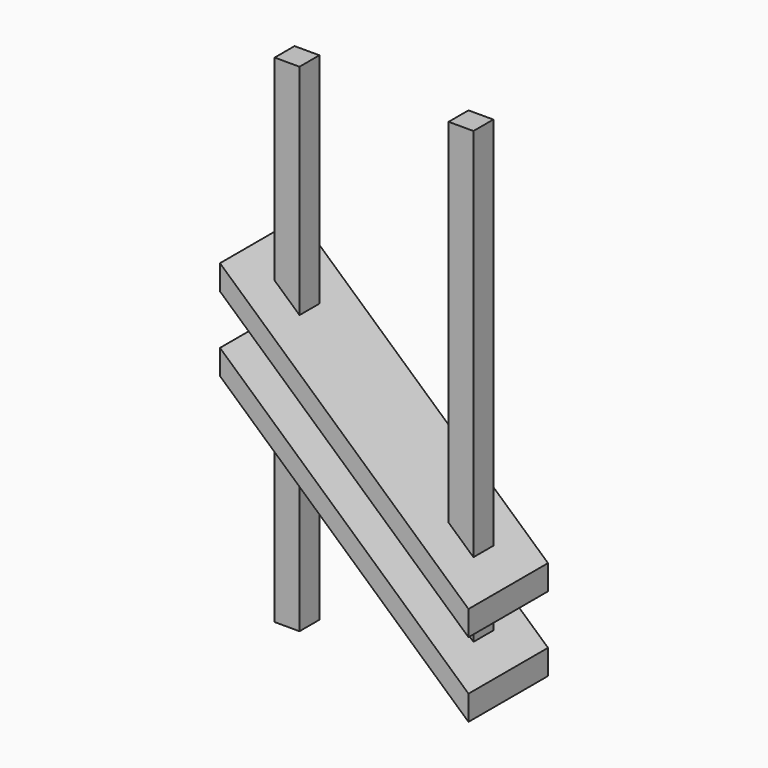
from build123d import *

# Parameters (mm, degrees)
F1_DEPTH      = 2.5
F1_DEPTH_BACK = 2.5
F2_DEPTH      = 10
F2_DEPTH_BACK = 10


with BuildPart() as f1:
    # F0 (on Front) → F1 (new body, two sides)
    with BuildSketch(Plane.XZ) as f1_sk:
        Polygon((-47.9271147301, 55), (-52.9271147301, 55), (-52.9271147301, 15.5), (-47.9271147301, 11), align=None)
        Polygon((-47.9271147301, -9), (-52.9271147301, -4.5), (-52.9271147301, -45), (-47.9271147301, -45), align=None)
        Polygon((-47.9271147301, 6), (-52.9271147301, 10.5), (-52.9271147301, 0.5), (-47.9271147301, -4), align=None)
        Polygon((-47.9271147301, 11), (-52.9271147301, 15.5), (-52.9271147301, 10.5), (-47.9271147301, 6), align=None)
        Polygon((-47.9271147301, -4), (-52.9271147301, 0.5), (-52.9271147301, -4.5), (-47.9271147301, -9), align=None)
    extrude(amount=F1_DEPTH)
    extrude(f1_sk.sketch, amount=-F1_DEPTH_BACK)


with BuildPart() as f1b:
    # F0 (on Front) → F1, piece 2 (new body, two sides)
    with BuildSketch(Plane.XZ) as f1_2_sk:
        Polygon((-17.9271147301, 55), (-17.9271147301, -16), (-12.9271147301, -20.5), (-12.9271147301, 55), align=None)
        Polygon((-12.9271147301, -40.5), (-17.9271147301, -36), (-17.9271147301, -45), (-12.9271147301, -45), align=None)
        Polygon((-12.9271147301, -25.5), (-17.9271147301, -21), (-17.9271147301, -31), (-12.9271147301, -35.5), align=None)
        Polygon((-12.9271147301, -20.5), (-17.9271147301, -16), (-17.9271147301, -21), (-12.9271147301, -25.5), align=None)
        Polygon((-12.9271147301, -35.5), (-17.9271147301, -31), (-17.9271147301, -36), (-12.9271147301, -40.5), align=None)
    extrude(amount=F1_DEPTH)
    extrude(f1_2_sk.sketch, amount=-F1_DEPTH_BACK)


with BuildPart() as f2:
    # F0 (on Front) → F2 (new body, two sides)
    with BuildSketch(Plane.XZ) as f2_sk:
        Polygon((-17.9271147301, -16), (-47.9271147301, 11), (-47.9271147301, 6), (-17.9271147301, -21), align=None)
        Polygon((-52.9271147301, 10.5), (-52.9271147301, 15.5), (-57.9271147301, 20), (-57.9271147301, 15), align=None)
        Polygon((-7.9271147301, -25), (-12.9271147301, -20.5), (-12.9271147301, -25.5), (-7.9271147301, -30), align=None)
        Polygon((-47.9271147301, 11), (-52.9271147301, 15.5), (-52.9271147301, 10.5), (-47.9271147301, 6), align=None)
        Polygon((-12.9271147301, -20.5), (-17.9271147301, -16), (-17.9271147301, -21), (-12.9271147301, -25.5), align=None)
    extrude(amount=F2_DEPTH)
    extrude(f2_sk.sketch, amount=-F2_DEPTH_BACK)


with BuildPart() as f2b:
    # F0 (on Front) → F2, piece 2 (new body, two sides)
    with BuildSketch(Plane.XZ) as f2_2_sk:
        Polygon((-17.9271147301, -31), (-47.9271147301, -4), (-47.9271147301, -9), (-17.9271147301, -36), align=None)
        Polygon((-52.9271147301, -4.5), (-52.9271147301, 0.5), (-57.9271147301, 5), (-57.9271147301, 0), align=None)
        Polygon((-7.9271147301, -40), (-12.9271147301, -35.5), (-12.9271147301, -40.5), (-7.9271147301, -45), align=None)
        Polygon((-47.9271147301, -4), (-52.9271147301, 0.5), (-52.9271147301, -4.5), (-47.9271147301, -9), align=None)
        Polygon((-12.9271147301, -35.5), (-17.9271147301, -31), (-17.9271147301, -36), (-12.9271147301, -40.5), align=None)
    extrude(amount=F2_DEPTH)
    extrude(f2_2_sk.sketch, amount=-F2_DEPTH_BACK)


solid = Compound([f1.part, f1b.part, f2.part, f2b.part])
